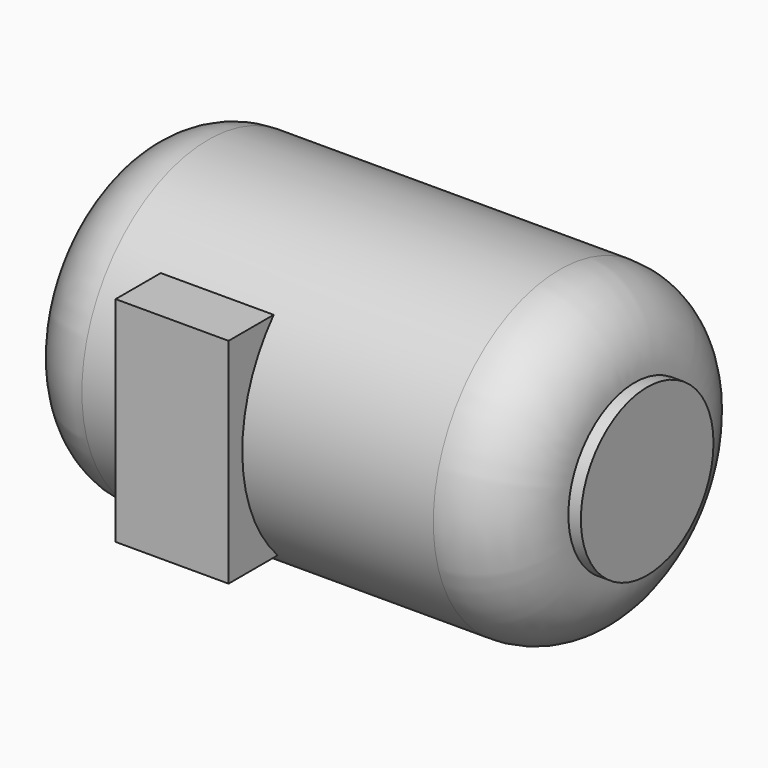
from build123d import *

# Parameters (mm, degrees)
F0_R     = 32.0745936063
F1_DEPTH = 101.854
F2_R     = 15.24
F3_DEPTH = 2.54
F4_DEPTH = 2.54
F5_W     = 22.9380205274
F5_H     = 43.4183962643
F6_DEPTH = 35.56
F7_DEPTH = 25.4


with BuildPart() as f1:
    # F0 (on Right) → F1 (new body)
    with BuildSketch(Plane.YZ):
        Circle(F0_R)
    extrude(amount=F1_DEPTH)

    # F2
    f2_edges = [f1.edges().sort_by_distance(p)[0] for p in [
        (101.854, -32.074594, 0),
        (50.927, 32.074594, 0),
        (0, -32.074594, 0),
    ]]
    fillet(f2_edges, radius=F2_R)

    # F3 (add): a face of the model
    f3_faces = [f1.faces().sort_by_distance(p)[0] for p in [
        (101.854, 0, 0),
    ]]
    extrude(f3_faces, amount=F3_DEPTH)

    # F4 (add): a face of the model
    f4_faces = [f1.faces().sort_by_distance(p)[0] for p in [
        (0, 0, 0),
    ]]
    extrude(f4_faces, amount=F4_DEPTH)

    # F5 (on Front) → F6 (join)
    with BuildSketch(Plane.XZ):
        with Locations((36.352340132, -0.5461424589)):
            Rectangle(F5_W, F5_H)
    extrude(amount=F6_DEPTH)

    # F7 (add): a face of the model
    f7_faces = [f1.faces().sort_by_distance(p)[0] for p in [
        (104.394, 0, 0),
    ]]
    extrude(f7_faces, amount=-F7_DEPTH)


solid = f1.part
